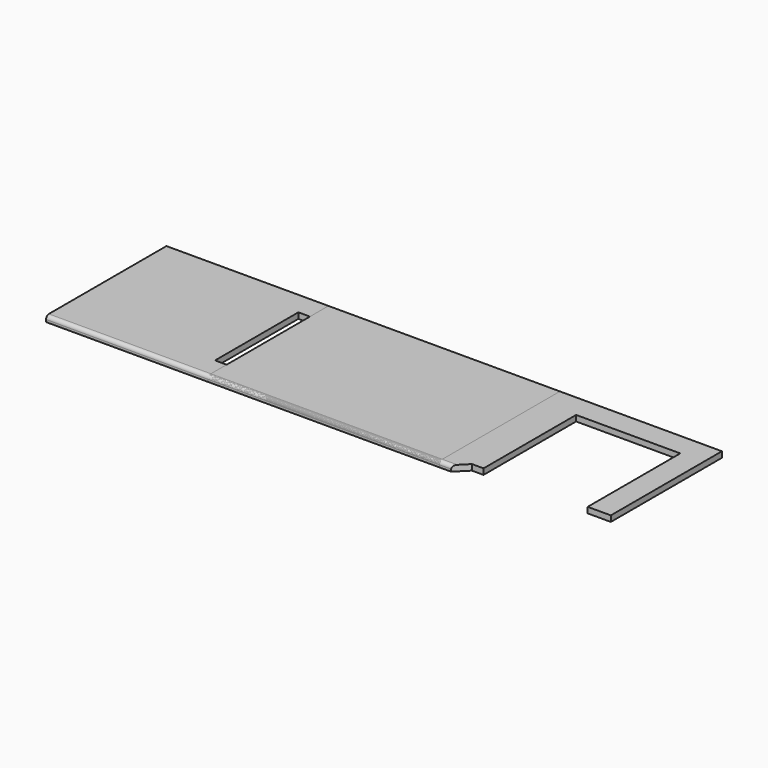
from build123d import *

# Parameters (mm, degrees)
F0_W      = 2400
F0_H      = 650
F1_DEPTH  = 12.5
F2_R      = 15
F4_DEPTH  = 25.001
F6_DEPTH  = 12.5
F7_R      = 15
F8_W      = 450
F8_H      = 500
F9_DEPTH  = 25.001
F10_W     = 450
F10_H     = 450
F11_DEPTH = 25.001
F12_W     = 1000
F12_H     = 650
F13_DEPTH = 12.5
F14_R     = 15
F15_W     = 500
F15_H     = 450
F16_DEPTH = 25.001


with BuildPart() as f1:
    # F0 (on Top) → F1 (new body, symmetric)
    with BuildSketch(Plane.XY):
        Rectangle(F0_W, F0_H)
    extrude(amount=F1_DEPTH, both=True)

    # F2
    f2_edges = [f1.edges().sort_by_distance(p)[0] for p in [
        (0, -325, 12.5),
    ]]
    fillet(f2_edges, radius=F2_R)

    # F3 (on face) → F4 (cut, through all)
    with BuildSketch(Plane(origin=(0, 0, -12.5), x_dir=(1, 0, 0), z_dir=(0, 0, -1))):
        Polygon((1200, 275), (1200, 325), (550, 325), (600, 275), align=None)
    extrude(amount=-F4_DEPTH, mode=Mode.SUBTRACT)

    # F8 (on face) → F9 (cut, through all)
    with BuildSketch(Plane(origin=(0, 0, -12.5), x_dir=(1, 0, 0), z_dir=(0, 0, -1))):
        with Locations((875, 25)):
            Rectangle(F8_W, F8_H)
    extrude(amount=-F9_DEPTH, mode=Mode.SUBTRACT)

    # F15 (on face) → F16 (cut, through all)
    with BuildSketch(Plane(origin=(0, 0, -12.5), x_dir=(1, 0, 0), z_dir=(0, 0, -1))):
        with Locations((-300, 0)):
            Rectangle(F15_W, F15_H)
    extrude(amount=-F16_DEPTH, mode=Mode.SUBTRACT)


with BuildPart() as f6:
    # F5 (on Top) → F6 (new body, symmetric)
    with BuildSketch(Plane.XY):
        Polygon((-250, -325), (300, -325), (300, 325), (-300, 325), (-300, -275), align=None)
    extrude(amount=F6_DEPTH, both=True)

    # F7
    f7_edges = [f6.edges().sort_by_distance(p)[0] for p in [
        (25, -325, 12.5),
    ]]
    fillet(f7_edges, radius=F7_R)

    # F10 (on face) → F11 (cut, through all)
    with BuildSketch(Plane(origin=(0, 0, -12.5), x_dir=(1, 0, 0), z_dir=(0, 0, -1))):
        with Locations((-75, 0)):
            Rectangle(F10_W, F10_H)
    extrude(amount=-F11_DEPTH, mode=Mode.SUBTRACT)


with BuildPart() as f13:
    # F12 (on Top) → F13 (new body, symmetric)
    with BuildSketch(Plane.XY):
        Rectangle(F12_W, F12_H)
    extrude(amount=F13_DEPTH, both=True)

    # F14
    f14_edges = [f13.edges().sort_by_distance(p)[0] for p in [
        (0, -325, 12.5),
    ]]
    fillet(f14_edges, radius=F14_R)


solid = Compound([f1.part, f6.part, f13.part])
